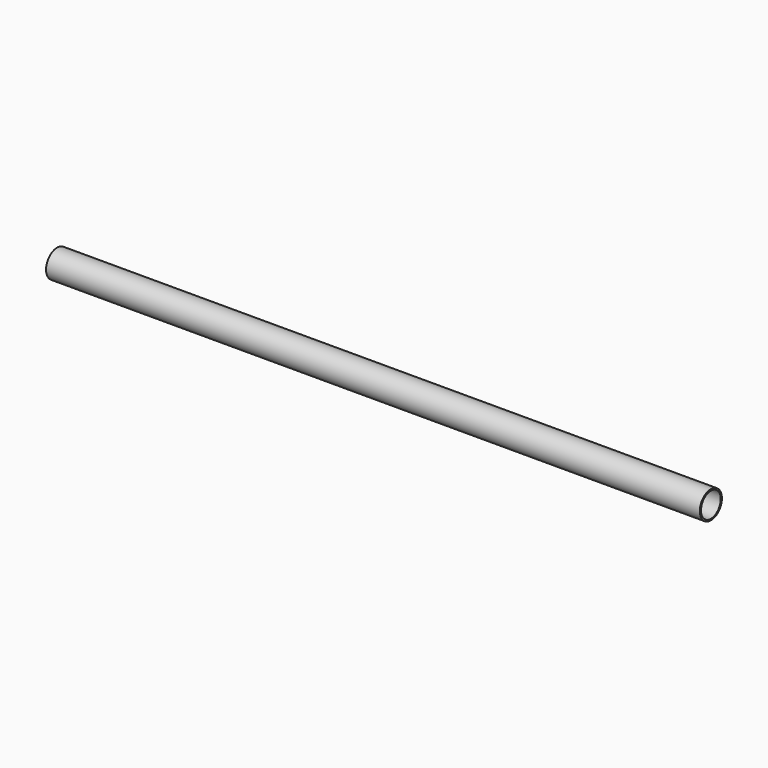
from build123d import *

# Parameters (mm, degrees)
F0_R          = 4.65
F1_DEPTH      = 110
F1_DEPTH_BACK = 110
F2_T          = -0.5


with BuildPart() as f1:
    # F0 (on Right) → F1 (new body, two sides)
    with BuildSketch(Plane.YZ) as f1_sk:
        Circle(F0_R)
    extrude(amount=F1_DEPTH)
    extrude(f1_sk.sketch, amount=-F1_DEPTH_BACK)

    # F2
    f2_openings = [f1.faces().sort_by_distance(p)[0] for p in [
        (110, 0, 0),
        (-110, 0, 0),
    ]]
    offset(amount=F2_T, openings=f2_openings)


solid = f1.part
